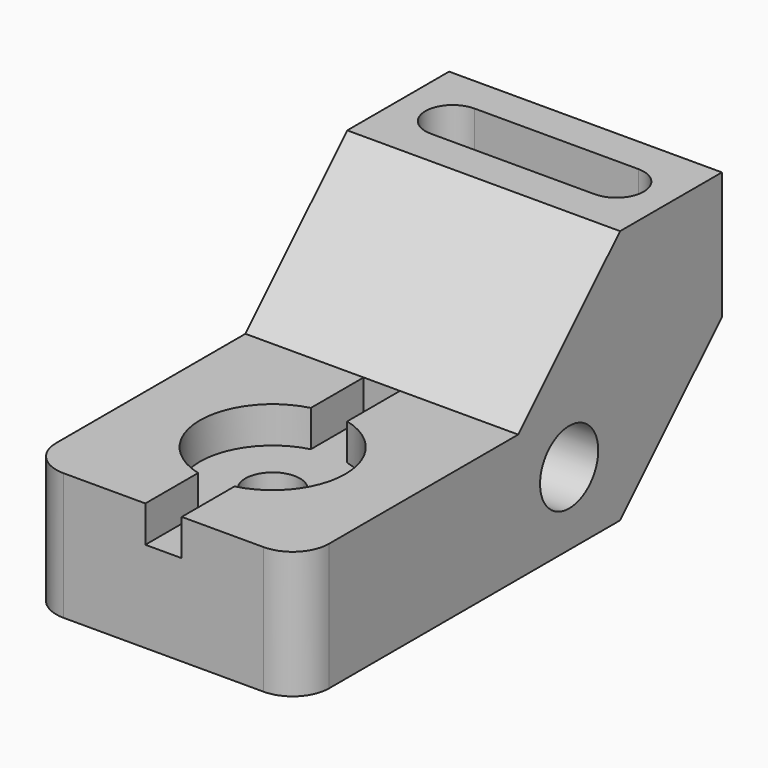
from build123d import *

# Parameters (mm, degrees)
F1_DEPTH       = 76.2
F2_R           = 10.16
F4_DEPTH       = 27.94
F5_R           = 10.16
F6_DEPTH       = 76.201
F8_D           = 15.24
F8_CBORE_D     = 40.64
F8_CBORE_DEPTH = 10.16
F9_W           = 10.16
F9_H           = 76.2
F10_DEPTH      = 10.16


with BuildPart() as f1:
    # F0 (on Right) → F1 (new body)
    with BuildSketch(Plane.YZ):
        Polygon((0, 35.56), (0, 0), (111.76, 0), (147.32, 35.56), (147.32, 71.12), (111.76, 71.12), (76.2, 35.56), align=None)
    extrude(amount=-F1_DEPTH)

    # F2
    f2_edges = [f1.edges().sort_by_distance(p)[0] for p in [
        (0, 0, 17.78),
        (-76.2, 0, 17.78),
    ]]
    fillet(f2_edges, radius=F2_R)

    # F3 (on face) → F4 (cut)
    with BuildSketch(Plane.XY.offset(71.12)):
        with BuildLine():
            Line((-15.24, 137.16), (-60.96, 137.16))
            ThreePointArc((-60.96, 137.16), (-68.58, 129.54), (-60.96, 121.92))
            Line((-60.96, 121.92), (-15.24, 121.92))
            ThreePointArc((-15.24, 121.92), (-7.62, 129.54), (-15.24, 137.16))
        make_face()
    extrude(amount=-F4_DEPTH, mode=Mode.SUBTRACT)

    # F5 (on face) → F6 (cut, through all)
    with BuildSketch(Plane.YZ):
        with Locations((93.98, 20.32)):
            Circle(F5_R)
    extrude(amount=-F6_DEPTH, mode=Mode.SUBTRACT)

    # F8 (through all)
    with Locations(Plane.XY.offset(35.56)):
        with Locations((-38.1, 38.1)):
            CounterBoreHole(F8_D / 2, F8_CBORE_D / 2, F8_CBORE_DEPTH)

    # F9 (on face) → F10 (cut)
    with BuildSketch(Plane.XY.offset(35.56)):
        with Locations((-38.1, 38.1)):
            Rectangle(F9_W, F9_H)
    extrude(amount=-F10_DEPTH, mode=Mode.SUBTRACT)


solid = f1.part
